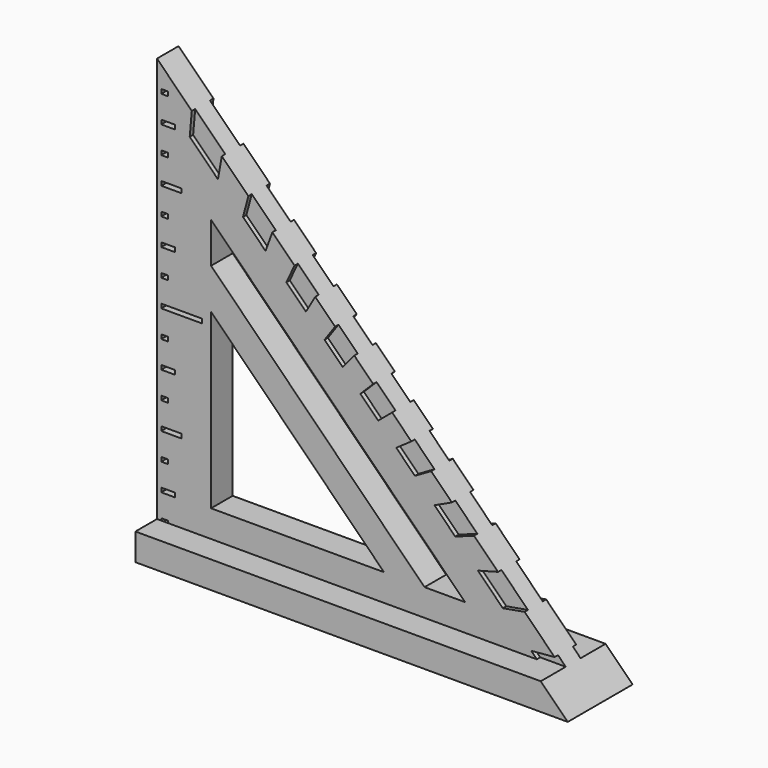
from build123d import *

# Parameters (mm, degrees)
PAD_DEPTH       = 9.525
SKETCH001_W     = 50.8
SKETCH001_H     = 50.8
POCKET_DEPTH    = 3.175
SKETCH002_W     = 50.8
SKETCH002_H     = 50.8
POCKET001_DEPTH = 3.175
POCKET002_DEPTH = 3.175
SKETCH004_W     = 0.79375
SKETCH004_H     = 0.5
SKETCH004_W_2   = 1.5875
SKETCH004_W_3   = 2.38125
SKETCH004_W_4   = 4.7625
POCKET003_DEPTH = 3.175
POCKET004_DEPTH = 0.5
POCKET005_DEPTH = 0.5


with BuildPart() as part:
    # Sketch → Pad (new body)
    with BuildSketch(Plane.XZ):
        Polygon((0, 0), (50.8, 0), (0, 50.8), align=None)
    extrude(amount=PAD_DEPTH)

    # Sketch001 (on Face5 of Pad) → Pocket (cut)
    with BuildSketch(Plane.XZ.offset(9.525)):
        with Locations((25.4, 28.575)):
            Rectangle(SKETCH001_W, SKETCH001_H)
    extrude(amount=-POCKET_DEPTH, mode=Mode.SUBTRACT)

    # Sketch002 (on Face4 of Pocket) → Pocket001 (cut)
    with BuildSketch(Plane(origin=(0, 0, 0), x_dir=(1, 0, 0), z_dir=(0, 1, 0))):
        with Locations((25.4, -28.575)):
            Rectangle(SKETCH002_W, SKETCH002_H)
    extrude(amount=-POCKET001_DEPTH, mode=Mode.SUBTRACT)

    # Sketch003 (on Face7 of Pocket001) → Pocket002 (cut)
    with BuildSketch(Plane.XZ.offset(6.35)):
        Polygon((6.35, 6.35), (26.67, 6.35), (6.35, 26.67), align=None)
        Polygon((6.35, 31.4325), (6.35, 36.195), (36.195, 6.35), (31.4325, 6.35), align=None)
    extrude(amount=-POCKET002_DEPTH, mode=Mode.SUBTRACT)

    # Sketch004 (on Face7 of Pocket002) → Pocket003 (cut)
    with BuildSketch(Plane.XZ.offset(6.35)):
        with Locations((0.896875, 3.175)):
            Rectangle(SKETCH004_W, SKETCH004_H)
        with Locations((1.293865, 6.346028)):
            Rectangle(SKETCH004_W_2, SKETCH004_H)
        with Locations((0.897105, 9.517056)):
            Rectangle(SKETCH004_W, SKETCH004_H)
        with Locations((1.69097, 12.688084)):
            Rectangle(SKETCH004_W_3, SKETCH004_H)
        with Locations((0.897335, 15.859112)):
            Rectangle(SKETCH004_W, SKETCH004_H)
        with Locations((1.294325, 19.03014)):
            Rectangle(SKETCH004_W_2, SKETCH004_H)
        with Locations((0.897565, 22.201168)):
            Rectangle(SKETCH004_W, SKETCH004_H)
        with Locations((2.882055, 25.372196)):
            Rectangle(SKETCH004_W_4, SKETCH004_H)
        with Locations((0.897795, 28.543224)):
            Rectangle(SKETCH004_W, SKETCH004_H)
        with Locations((1.294785, 31.714252)):
            Rectangle(SKETCH004_W_2, SKETCH004_H)
        with Locations((0.898025, 34.88528)):
            Rectangle(SKETCH004_W, SKETCH004_H)
        with Locations((1.69189, 38.056308)):
            Rectangle(SKETCH004_W_3, SKETCH004_H)
        with Locations((0.898255, 41.227336)):
            Rectangle(SKETCH004_W, SKETCH004_H)
        with Locations((1.295245, 44.398364)):
            Rectangle(SKETCH004_W_2, SKETCH004_H)
        with Locations((0.898485, 47.569392)):
            Rectangle(SKETCH004_W, SKETCH004_H)
    extrude(amount=-POCKET003_DEPTH, mode=Mode.SUBTRACT)

    # Sketch005 (on Face7 of Pocket003) → Pocket004 (cut)
    with BuildSketch(Plane.XZ.offset(6.35)):
        Polygon((43.954481, 3.845519), (46.713131, 4.086869), (47.625, 3.175), (44.625, 3.175), align=None)
        Polygon((40.63496, 7.16504), (43.185271, 7.614729), (40.064697, 10.735303), (37.698671, 10.101329), align=None)
        Polygon((28.114215, 19.685785), (29.878705, 20.921295), (32.205909, 18.594091), (30.303986, 17.496014), align=None)
        Polygon((25.4, 25.4), (27.622212, 23.177788), (25.990979, 21.809021), (23.9, 23.9), align=None)
        Polygon((23.177788, 27.622212), (21.809021, 25.990979), (19.685785, 28.114215), (20.921295, 29.878705), align=None)
        Polygon((15.201111, 32.598889), (17.496014, 30.303986), (18.594091, 32.205909), (16.155156, 34.644844), align=None)
        Polygon((13.555785, 37.244215), (10.735303, 40.064697), (10.101329, 37.698671), (12.755247, 35.044753), align=None)
        Polygon((7.614729, 43.185271), (4.086869, 46.713131), (3.845519, 43.954481), (7.16504, 40.63496), align=None)
        Polygon((32.598889, 15.201111), (34.644844, 16.155156), (37.244215, 13.555785), (35.044753, 12.755247), align=None)
    extrude(amount=-POCKET004_DEPTH, mode=Mode.SUBTRACT)

    # Sketch006 → Pocket005 (cut)
    with BuildSketch(Plane(origin=(0, -3.175, 0), x_dir=(1, 0, 0), z_dir=(0, 1, 0))):
        Polygon((43.185271, -7.614729), (40.064697, -10.735303), (37.698671, -10.101329), (40.63496, -7.16504), align=None)
        Polygon((37.244215, -13.555785), (34.644844, -16.155156), (32.598889, -15.201111), (35.044753, -12.755247), align=None)
        Polygon((32.205909, -18.594091), (29.878705, -20.921295), (28.114215, -19.685785), (30.303986, -17.496014), align=None)
        Polygon((27.622212, -23.177788), (25.4, -25.4), (23.9, -23.9), (25.990979, -21.809021), align=None)
        Polygon((23.177788, -27.622212), (20.921295, -29.878705), (19.685785, -28.114215), (21.809021, -25.990979), align=None)
        Polygon((17.496014, -30.303986), (18.594091, -32.205909), (16.155156, -34.644844), (15.201111, -32.598889), align=None)
        Polygon((13.555785, -37.244215), (10.735303, -40.064697), (10.101329, -37.698671), (12.755247, -35.044753), align=None)
        Polygon((7.614729, -43.185271), (4.086869, -46.713131), (3.845519, -43.954481), (7.16504, -40.63496), align=None)
        Polygon((46.713131, -4.086869), (43.954481, -3.845519), (44.625, -3.175), (47.625, -3.175), align=None)
    extrude(amount=-POCKET005_DEPTH, mode=Mode.SUBTRACT)


solid = part.part
